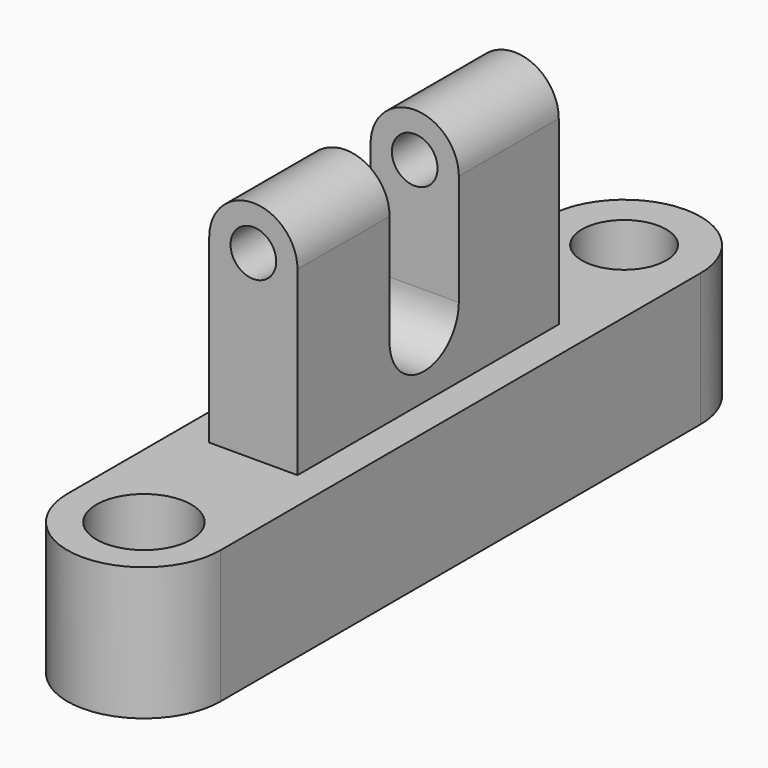
from build123d import *

# Parameters (mm, degrees)
F0_R     = 9.053492
F0_R_2   = 8.043979
F1_DEPTH = 25.4
F2_W     = 16.844214
F2_H     = 62.323578
F3_DEPTH = 45.974
F5_DEPTH = 25.4
F6_R     = 4.361734
F7_DEPTH = 85.598


with BuildPart() as f1:
    # F0 (on Top) → F1 (new body)
    with BuildSketch(Plane.XY):
        with BuildLine():
            Line((14.598317, -57.270318), (14.598317, 57.270318))
            ThreePointArc((14.598317, 57.270318), (0, 71.868635), (-14.598317, 57.270318))
            Line((-14.598317, 57.270318), (-14.598317, -57.270318))
            ThreePointArc((-14.598317, -57.270318), (0, -71.868635), (14.598317, -57.270318))
        make_face()
        with Locations((0, -57.270318)):
            Circle(F0_R, mode=Mode.SUBTRACT)
        with Locations((0, 57.270318)):
            Circle(F0_R_2, mode=Mode.SUBTRACT)
    extrude(amount=F1_DEPTH)

    # F2 (on face) → F3 (join)
    with BuildSketch(Plane.XY.offset(25.4)):
        Rectangle(F2_W, F2_H)
    extrude(amount=F3_DEPTH)

    # F4 (on face) → F5 (cut)
    with BuildSketch(Plane.YZ.offset(8.422107)):
        with BuildLine():
            Line((7.322163, 71.374), (-9.203623, 71.374))
            Line((-9.203623, 71.374), (-9.203623, 38.925104))
            ThreePointArc((-9.203623, 38.925104), (-1.024193, 30.578748), (7.322163, 38.758177))
            Line((7.322163, 38.758177), (7.322163, 71.374))
        make_face()
    extrude(amount=-F5_DEPTH, mode=Mode.SUBTRACT)

    # F6 (on face) → F7 (cut)
    with BuildSketch(Plane.XZ.offset(31.161789)):
        with BuildLine():
            Line((-8.422107, 71.374), (-8.422107, 59.979465))
            ThreePointArc((-8.422107, 59.979465), (0, 68.401572), (8.422107, 59.979465))
            Line((8.422107, 59.979465), (8.422107, 71.374))
            Line((8.422107, 71.374), (-8.422107, 71.374))
        make_face()
        with Locations((0, 59.979465)):
            Circle(F6_R)
    extrude(amount=-F7_DEPTH, mode=Mode.SUBTRACT)


solid = f1.part
